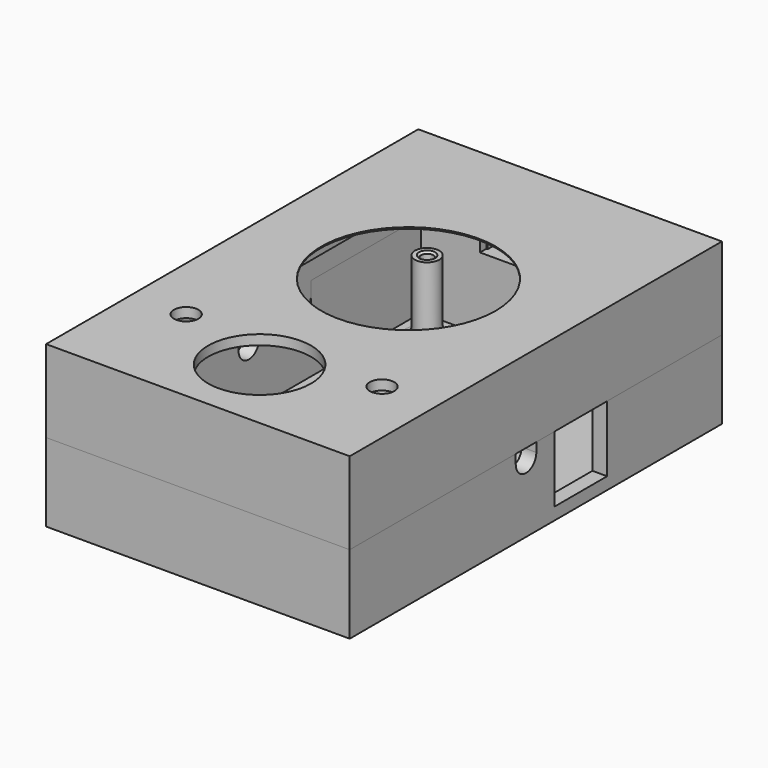
from build123d import *

# Parameters (mm, degrees)
SKETCH_W        = 62
SKETCH_H        = 95
SKETCH_W_2      = 56
SKETCH_H_2      = 89
PAD_DEPTH       = 14.75
SKETCH001_W     = 62
SKETCH001_H     = 95
PAD001_DEPTH    = 2
SKETCH002_R     = 2.5
SKETCH002_R_2   = 1.25
PAD002_DEPTH    = 14.75
POCKET_DEPTH    = 3
SKETCH004_W     = 13.4
SKETCH004_H     = 14.25
POCKET001_DEPTH = 3
PAD004_DEPTH    = 3
CHAMFER_SIZE    = 0.8
CHAMFER001_SIZE = 0.4
FILLET_R        = 2
SKETCH005_W     = 62
SKETCH005_H     = 95
SKETCH005_W_2   = 56
SKETCH005_H_2   = 89
PAD003_DEPTH    = 14.8
SKETCH007_W     = 62
SKETCH007_H     = 95
PAD005_DEPTH    = 2
SKETCH008_R     = 10.5
SKETCH008_R_2   = 2.5
SKETCH008_R_3   = 17.8
POCKET002_DEPTH = 2
SKETCH009_R     = 2
SKETCH009_W     = 9.5
SKETCH009_H     = 5.6
POCKET003_DEPTH = 3
SKETCH010_W     = 37
SKETCH010_H     = 45
POCKET004_DEPTH = 1.6
CHAMFER002_SIZE = 0.2
POCKET005_DEPTH = 3.25
PAD006_DEPTH    = 3
FILLET001_R     = 0.2


with BuildPart() as c1013:
    # Sketch → Pad (new body)
    with BuildSketch(Plane.XY):
        with Locations((31, 47.5)):
            Rectangle(SKETCH_W, SKETCH_H)
        with Locations((31, 47.5)):
            Rectangle(SKETCH_W_2, SKETCH_H_2, mode=Mode.SUBTRACT)
    extrude(amount=PAD_DEPTH)

    # Sketch001 (on Face9 of Pad) → Pad001 (join)
    with BuildSketch(Plane(origin=(0, 0, 0), x_dir=(1, 0, 0), z_dir=(0, 0, -1))):
        with Locations((31, -47.5)):
            Rectangle(SKETCH001_W, SKETCH001_H)
    extrude(amount=PAD001_DEPTH)

    # Sketch002 (on Face8 of Pad001) → Pad002 (join)
    with BuildSketch(Plane.XY):
        with Locations((9, 86)):
            Circle(SKETCH002_R)
        with Locations((9, 86)):
            Circle(SKETCH002_R_2, mode=Mode.SUBTRACT)
        with Locations((53, 86)):
            Circle(SKETCH002_R)
        with Locations((53, 86)):
            Circle(SKETCH002_R_2, mode=Mode.SUBTRACT)
        with Locations((53, 9)):
            Circle(SKETCH002_R)
        with Locations((53, 9)):
            Circle(SKETCH002_R_2, mode=Mode.SUBTRACT)
        with Locations((9, 9)):
            Circle(SKETCH002_R)
        with Locations((9, 9)):
            Circle(SKETCH002_R_2, mode=Mode.SUBTRACT)
    extrude(amount=PAD002_DEPTH)

    # Sketch003 (on Face2 of Pad002) → Pocket (cut)
    with BuildSketch(Plane(origin=(0, 0, 0), x_dir=(0, -1, 0), z_dir=(-1, 0, 0))):
        with BuildLine():
            ThreePointArc((-50.625, 12.125), (-48, 9.5), (-45.375, 12.125))
            Line((-45.375, 12.125), (-45.375, 14.75))
            Line((-50.625, 14.75), (-45.375, 14.75))
            Line((-50.625, 12.125), (-50.625, 14.75))
        make_face()
        with BuildLine():
            ThreePointArc((-63.875, 10.7), (-62, 8.825), (-60.125, 10.7))
            Line((-60.125, 10.7), (-60.125, 14.75))
            Line((-60.125, 14.75), (-63.875, 14.75))
            Line((-63.875, 10.7), (-63.875, 14.75))
        make_face()
    extrude(amount=-POCKET_DEPTH, mode=Mode.SUBTRACT)

    # Sketch004 (on Face4 of Pocket) → Pocket001 (cut)
    with BuildSketch(Plane.YZ.offset(62)):
        with BuildLine():
            ThreePointArc((42.375, 12.125), (45, 9.5), (47.625, 12.125))
            Line((47.625, 12.125), (47.625, 14.75))
            Line((42.375, 14.75), (47.625, 14.75))
            Line((42.375, 12.125), (42.375, 14.75))
        make_face()
        with Locations((59, 7.625)):
            Rectangle(SKETCH004_W, SKETCH004_H)
    extrude(amount=-POCKET001_DEPTH, mode=Mode.SUBTRACT)

    # Sketch006 (on Face14 of Pocket001) → Pad004 (join)
    with BuildSketch(Plane.XY.offset(14.75)):
        Polygon((3, 92), (3, 63.875), (1.35, 63.875), (1.35, 93.65), (15, 93.65), (15, 92), align=None)
        Polygon((60.65, 93.65), (60.65, 65.7), (59, 65.7), (59, 92), (47, 92), (47, 93.65), align=None)
        Polygon((59, 42.375), (60.65, 42.375), (60.65, 1.35), (1.35, 1.35), (1.35, 45.375), (3, 45.375), (3, 3), (59, 3), align=None)
    extrude(amount=PAD004_DEPTH)

    # Chamfer
    chamfer_edges = [c1013.edges().sort_by_distance(p)[0] for p in [
        (1.35, 78.7625, 17.75),
        (8.175, 93.65, 17.75),
        (53.825, 93.65, 17.75),
        (60.65, 79.675, 17.75),
        (60.65, 21.8625, 17.75),
        (31, 1.35, 17.75),
        (1.35, 23.3625, 17.75),
    ]]
    chamfer(chamfer_edges, length=CHAMFER_SIZE)

    # Chamfer001
    chamfer001_edges = [c1013.edges().sort_by_distance(p)[0] for p in [
        (51.75, 86, 14.75),
        (51.75, 9, 14.75),
        (7.75, 9, 14.75),
        (7.75, 86, 14.75),
    ]]
    chamfer(chamfer001_edges, length=CHAMFER001_SIZE)

    # Fillet
    fillet_edges = [c1013.edges().sort_by_distance(p)[0] for p in [
        (50.5, 86, 0),
        (6.5, 86, 0),
        (6.5, 9, 0),
        (50.5, 9, 0),
    ]]
    fillet(fillet_edges, radius=FILLET_R)


with BuildPart() as c1014:
    # Sketch005 → Pad003 (new body)
    with BuildSketch(Plane.XY):
        with Locations((31, 47.5)):
            Rectangle(SKETCH005_W, SKETCH005_H)
        with Locations((31, 47.5)):
            Rectangle(SKETCH005_W_2, SKETCH005_H_2, mode=Mode.SUBTRACT)
    extrude(amount=PAD003_DEPTH)

    # Sketch007 (on Face10 of Pad003) → Pad005 (join)
    with BuildSketch(Plane.XY.offset(14.8)):
        with Locations((31, 47.5)):
            Rectangle(SKETCH007_W, SKETCH007_H)
    extrude(amount=PAD005_DEPTH)

    # Sketch008 (on Face8 of Pad005) → Pocket002 (cut)
    with BuildSketch(Plane.XY.offset(16.8)):
        with Locations((31, 15.75)):
            Circle(SKETCH008_R)
        with Locations((11, 22)):
            Circle(SKETCH008_R_2)
        with Locations((51, 22)):
            Circle(SKETCH008_R_2)
        with Locations((31, 53.74)):
            Circle(SKETCH008_R_3)
    extrude(amount=-POCKET002_DEPTH, mode=Mode.SUBTRACT)

    # Sketch009 (on Face4 of Pocket002) → Pocket003 (cut)
    with BuildSketch(Plane(origin=(0, 95, 0), x_dir=(-1, 0, 0), z_dir=(0, 1, 0))):
        with Locations((-40.75, 5.6)):
            Circle(SKETCH009_R)
        with Locations((-20, 2.8)):
            Rectangle(SKETCH009_W, SKETCH009_H)
    extrude(amount=-POCKET003_DEPTH, mode=Mode.SUBTRACT)

    # Sketch010 (on Face15 of Pocket003) → Pocket004 (cut)
    with BuildSketch(Plane(origin=(0, 0, 14.8), x_dir=(1, 0, 0), z_dir=(0, 0, -1))):
        with Locations((31, -53.05)):
            Rectangle(SKETCH010_W, SKETCH010_H)
    extrude(amount=-POCKET004_DEPTH, mode=Mode.SUBTRACT)

    # Chamfer002
    chamfer002_edges = [c1014.edges().sort_by_distance(p)[0] for p in [
        (13.2, 53.74, 16.4),
    ]]
    chamfer(chamfer002_edges, length=CHAMFER002_SIZE)

    # Sketch011 (on Face16 of Chamfer002) → Pocket005 (cut)
    with BuildSketch(Plane(origin=(0, 0, 0), x_dir=(1, 0, 0), z_dir=(0, 0, -1))):
        Polygon((3, -3), (3, -45.375), (1.35, -45.375), (1.35, -1.35), (60.65, -1.35), (60.65, -42.375), (59, -42.375), (59, -3), align=None)
        Polygon((3, -63.875), (3, -92), (59, -92), (59, -65.7), (60.65, -65.7), (60.65, -93.65), (1.35, -93.65), (1.35, -63.875), align=None)
    extrude(amount=-POCKET005_DEPTH, mode=Mode.SUBTRACT)

    # Sketch012 (on Face7 of Pocket005) → Pad006 (join)
    with BuildSketch(Plane(origin=(0, 0, 0), x_dir=(0, -1, 0), z_dir=(-1, 0, 0))):
        with BuildLine():
            ThreePointArc((-60.225, -4.05), (-62, -2.275), (-63.775, -4.05))
            Line((-63.775, -4.05), (-63.775, 0))
            Line((-63.775, 0), (-60.225, 0))
            Line((-60.225, 0), (-60.225, -4.05))
        make_face()
    extrude(amount=-PAD006_DEPTH)

    # Fillet001
    fillet001_edges = [c1014.edges().sort_by_distance(p)[0] for p in [
        (1.5, 63.775, -4.05),
        (1.5, 60.225, -4.05),
    ]]
    fillet(fillet001_edges, radius=FILLET001_R)


with BuildPart() as obj1:
    # Body001 placement: moved
    add(c1014.part.moved(Location((0, 0, 14))))


solid = Compound([c1013.part, obj1.part])
